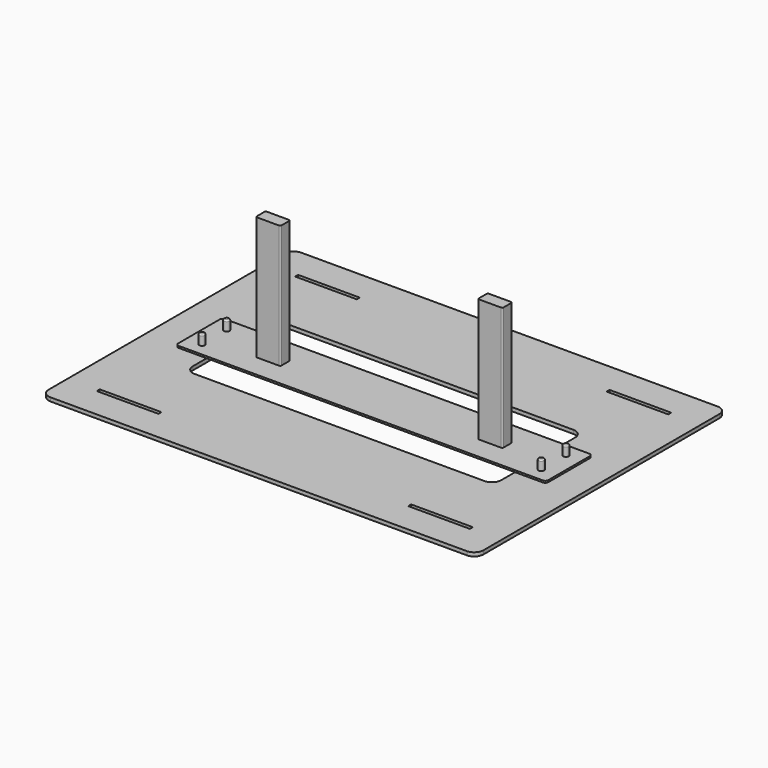
from build123d import *

# Parameters (mm, degrees)
F0_W     = 100
F0_H     = 6
F0_R     = 4.5
F1_DEPTH = 6
F2_R     = 4.5
F3_DEPTH = 25
F4_R     = 2
F4_2_R   = 2
F4_3_R   = 2
F4_4_R   = 2
F5_R     = 4.5
F5_W     = 250
F5_H     = 46.9846048355
F6_DEPTH = 3
F8_DEPTH = 200


with BuildPart() as f1:
    # F0 (on Top) → F1 (new body)
    with BuildSketch(Plane.XY):
        with BuildLine():
            Line((-689.85, 0), (-15, 0))
            ThreePointArc((-15, 0), (-4.3933982822, 4.3933982822), (0, 15))
            Line((0, 15), (0, 493))
            ThreePointArc((0, 493), (-4.3933982822, 503.6066017178), (-15, 508))
            Line((-15, 508), (-689.85, 508))
            ThreePointArc((-689.85, 508), (-700.4566017178, 503.6066017178), (-704.85, 493))
            Line((-704.85, 493), (-704.85, 15))
            ThreePointArc((-704.85, 15), (-700.4566017178, 4.3933982822), (-689.85, 0))
        make_face()
        with Locations((-604.85, 53)):
            Rectangle(F0_W, F0_H, mode=Mode.SUBTRACT)
        with Locations((-627.425, 229)):
            Circle(F0_R, mode=Mode.SUBTRACT)
        with Locations((-100, 53)):
            Rectangle(F0_W, F0_H, mode=Mode.SUBTRACT)
        with Locations((-77.425, 229)):
            Circle(F0_R, mode=Mode.SUBTRACT)
        with Locations((-627.425, 279)):
            Circle(F0_R, mode=Mode.SUBTRACT)
        with Locations((-604.85, 455)):
            Rectangle(F0_W, F0_H, mode=Mode.SUBTRACT)
        with BuildLine():
            ThreePointArc((-102.425, 179), (-106.8183982822, 168.3933982822), (-117.425, 164))
            Line((-117.425, 164), (-587.425, 164))
            ThreePointArc((-587.425, 164), (-598.0316017178, 168.3933982822), (-602.425, 179))
            Line((-602.425, 179), (-602.425, 329))
            ThreePointArc((-602.425, 329), (-598.0316017178, 339.6066017178), (-587.425, 344))
            Line((-587.425, 344), (-117.425, 344))
            ThreePointArc((-117.425, 344), (-106.8183982822, 339.6066017178), (-102.425, 329))
            Line((-102.425, 329), (-102.425, 179))
        make_face(mode=Mode.SUBTRACT)
        with Locations((-77.425, 279)):
            Circle(F0_R, mode=Mode.SUBTRACT)
        with Locations((-100, 455)):
            Rectangle(F0_W, F0_H, mode=Mode.SUBTRACT)
    extrude(amount=F1_DEPTH)


with BuildPart() as f3:
    # F2 (on face) → F3 (new body)
    with BuildSketch(Plane(origin=(0, 0, 0), x_dir=(1, 0, 0), z_dir=(0, 0, -1))):
        with Locations((-627.425, -279)):
            Circle(F2_R)
    extrude(amount=-F3_DEPTH)

    # F4
    f4_edges = [f3.edges().sort_by_distance(p)[0] for p in [
        (-631.925, 279, 25),
    ]]
    fillet(f4_edges, radius=F4_R)


with BuildPart() as f3b:
    # F2 (on face) → F3, piece 2 (new body)
    with BuildSketch(Plane(origin=(0, 0, 0), x_dir=(1, 0, 0), z_dir=(0, 0, -1))):
        with Locations((-627.425, -229)):
            Circle(F2_R)
    extrude(amount=-F3_DEPTH)

    # F4#2
    f4_2_edges = [f3b.edges().sort_by_distance(p)[0] for p in [
        (-631.925, 229, 25),
    ]]
    fillet(f4_2_edges, radius=F4_2_R)


with BuildPart() as f3c:
    # F2 (on face) → F3, piece 3 (new body)
    with BuildSketch(Plane(origin=(0, 0, 0), x_dir=(1, 0, 0), z_dir=(0, 0, -1))):
        with Locations((-77.425, -279)):
            Circle(F2_R)
    extrude(amount=-F3_DEPTH)

    # F4#3
    f4_3_edges = [f3c.edges().sort_by_distance(p)[0] for p in [
        (-81.925, 279, 25),
    ]]
    fillet(f4_3_edges, radius=F4_3_R)


with BuildPart() as f3d:
    # F2 (on face) → F3, piece 4 (new body)
    with BuildSketch(Plane(origin=(0, 0, 0), x_dir=(1, 0, 0), z_dir=(0, 0, -1))):
        with Locations((-77.425, -229)):
            Circle(F2_R)
    extrude(amount=-F3_DEPTH)

    # F4#4
    f4_4_edges = [f3d.edges().sort_by_distance(p)[0] for p in [
        (-81.925, 229, 25),
    ]]
    fillet(f4_4_edges, radius=F4_4_R)


with BuildPart() as f6:
    # F5 (on face) → F6 (new body)
    with BuildSketch(Plane.XY.offset(6)):
        with BuildLine():
            Line((-602.425, 254), (-602.425, 300.9846048355))
            Line((-602.425, 300.9846048355), (-647.425, 300.9846048355))
            ThreePointArc((-647.425, 300.9846048355), (-650.9605339059, 299.5201387414), (-652.425, 295.9846048355))
            Line((-652.425, 295.9846048355), (-652.425, 254))
            Line((-652.425, 254), (-602.425, 254))
        make_face()
        with Locations((-627.425, 279)):
            Circle(F5_R, mode=Mode.SUBTRACT)
        with Locations((-477.425, 277.4923024178)):
            Rectangle(F5_W, F5_H)
        with BuildLine():
            Line((-602.425, 207.0153951645), (-602.425, 254))
            Line((-602.425, 254), (-652.425, 254))
            Line((-652.425, 254), (-652.425, 212.0153951645))
            ThreePointArc((-652.425, 212.0153951645), (-650.9605339059, 208.4798612586), (-647.425, 207.0153951645))
            Line((-647.425, 207.0153951645), (-602.425, 207.0153951645))
        make_face()
        with Locations((-627.425, 229)):
            Circle(F5_R, mode=Mode.SUBTRACT)
        with Locations((-477.425, 230.5076975822)):
            Rectangle(F5_W, F5_H)
        with Locations((-227.425, 230.5076975822)):
            Rectangle(F5_W, F5_H)
        with Locations((-227.425, 277.4923024178)):
            Rectangle(F5_W, F5_H)
        with BuildLine():
            Line((-57.425, 300.9846048355), (-102.425, 300.9846048355))
            Line((-102.425, 300.9846048355), (-102.425, 254))
            Line((-102.425, 254), (-52.425, 254))
            Line((-52.425, 254), (-52.425, 295.9846048355))
            ThreePointArc((-52.425, 295.9846048355), (-53.8894660941, 299.5201387414), (-57.425, 300.9846048355))
        make_face()
        with Locations((-77.425, 279)):
            Circle(F5_R, mode=Mode.SUBTRACT)
        with BuildLine():
            Line((-52.425, 254), (-102.425, 254))
            Line((-102.425, 254), (-102.425, 207.0153951645))
            Line((-102.425, 207.0153951645), (-57.425, 207.0153951645))
            ThreePointArc((-57.425, 207.0153951645), (-53.8894660941, 208.4798612586), (-52.425, 212.0153951645))
            Line((-52.425, 212.0153951645), (-52.425, 254))
        make_face()
        with Locations((-77.425, 229)):
            Circle(F5_R, mode=Mode.SUBTRACT)
    extrude(amount=F6_DEPTH)


with BuildPart() as f8:
    # F7 (on face) → F8 (new body)
    with BuildSketch(Plane.XY.offset(9)):
        with BuildLine():
            Line((-552.425, 262), (-552.425, 254))
            Line((-552.425, 254), (-552.425, 246))
            ThreePointArc((-552.425, 246), (-551.8392135624, 244.5857864376), (-550.425, 244))
            Line((-550.425, 244), (-514.425, 244))
            ThreePointArc((-514.425, 244), (-513.0107864376, 244.5857864376), (-512.425, 246))
            Line((-512.425, 246), (-512.425, 254))
            Line((-512.425, 254), (-512.425, 262))
            ThreePointArc((-512.425, 262), (-513.0107864376, 263.4142135624), (-514.425, 264))
            Line((-514.425, 264), (-550.425, 264))
            ThreePointArc((-550.425, 264), (-551.8392135624, 263.4142135624), (-552.425, 262))
        make_face()
    extrude(amount=F8_DEPTH)


with BuildPart() as f8b:
    # F7 (on face) → F8, piece 2 (new body)
    with BuildSketch(Plane.XY.offset(9)):
        with BuildLine():
            ThreePointArc((-190.425, 264), (-191.8392135624, 263.4142135624), (-192.425, 262))
            Line((-192.425, 262), (-192.425, 254))
            Line((-192.425, 254), (-192.425, 246))
            ThreePointArc((-192.425, 246), (-191.8392135624, 244.5857864376), (-190.425, 244))
            Line((-190.425, 244), (-154.425, 244))
            ThreePointArc((-154.425, 244), (-153.0107864376, 244.5857864376), (-152.425, 246))
            Line((-152.425, 246), (-152.425, 254))
            Line((-152.425, 254), (-152.425, 262))
            ThreePointArc((-152.425, 262), (-153.0107864376, 263.4142135624), (-154.425, 264))
            Line((-154.425, 264), (-190.425, 264))
        make_face()
    extrude(amount=F8_DEPTH)


solid = Compound([f1.part, f3.part, f3b.part, f3c.part, f3d.part, f6.part, f8.part, f8b.part])
